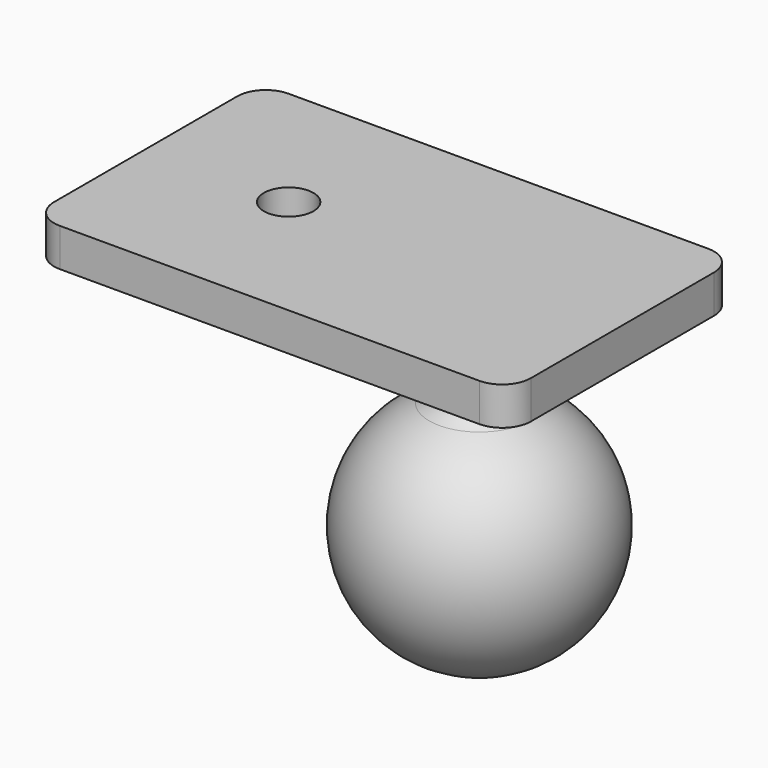
from build123d import *

# Parameters (mm, degrees)
F2_T     = -2.5
F3_R     = 2.6
F4_DEPTH = 4


with BuildPart() as f1:
    # F0 (on Front) → F1 (revolve)
    with BuildSketch(Plane.XZ):
        with BuildLine():
            Line((0, -36.8440513045), (0, -11.8440513045))
            ThreePointArc((0, -11.8440513045), (-2.6878763637, -12.1364585585), (-5.25, -13))
            ThreePointArc((-5.25, -13), (-12.207592746, -27.0319276683), (0, -36.8440513045))
        make_face()
        with BuildLine():
            Line((0, -11.8440513045), (0, -5))
            Line((0, -5), (-6.9, -5))
            add(Edge.make_bspline(
                [(-5.25, -13), (-2.8193239395, -11.8750888924), (-0.9143215768, -7.7015358731), (-6.9, -5)],
                knots=[0, 0, 0, 0, 8.1683841731, 8.1683841731, 8.1683841731, 8.1683841731], degree=3))
            ThreePointArc((-5.25, -13), (-2.6878763637, -12.1364585585), (0, -11.8440513045))
        make_face()
    revolve(axis=Axis((0, 0, -18.4220256523), (0, 0, -1)))

    # F2 (hollow: no face is removed)
    offset(amount=F2_T, kind=Kind.INTERSECTION, mode=Mode.SUBTRACT)

    # F3 (on face) → F4 (join)
    with BuildSketch(Plane.XY.offset(-5)):
        with BuildLine():
            Line((-32, -15), (12, -15))
            ThreePointArc((12, -15), (14.1213203436, -14.1213203436), (15, -12))
            Line((15, -12), (15, 12))
            ThreePointArc((15, 12), (14.1213203436, 14.1213203436), (12, 15))
            Line((12, 15), (-32, 15))
            ThreePointArc((-32, 15), (-34.1213203436, 14.1213203436), (-35, 12))
            Line((-35, 12), (-35, -12))
            ThreePointArc((-35, -12), (-34.1213203436, -14.1213203436), (-32, -15))
        make_face()
        with Locations((-20, 0)):
            Circle(F3_R, mode=Mode.SUBTRACT)
    extrude(amount=F4_DEPTH)


solid = f1.part
